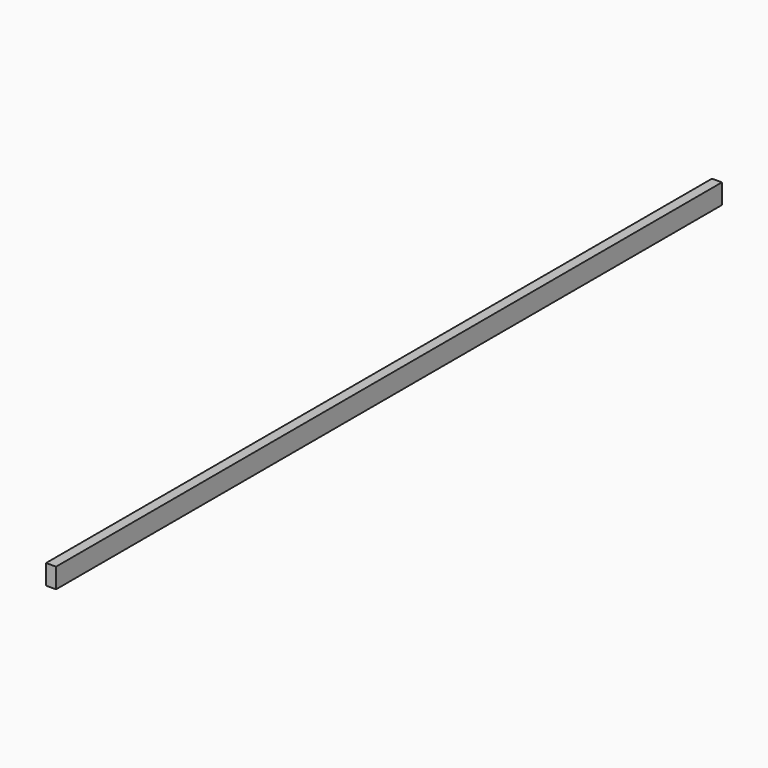
from build123d import *

# Parameters (mm, degrees)
F1_W     = 24
F1_H     = 48
F2_DEPTH = 2000


with BuildPart() as f2:
    # F1 (on Front) → F2 (new body)
    with BuildSketch(Plane.XZ):
        Rectangle(F1_W, F1_H)
        Rectangle(F1_W, F1_H)
    extrude(amount=F2_DEPTH)


solid = f2.part
